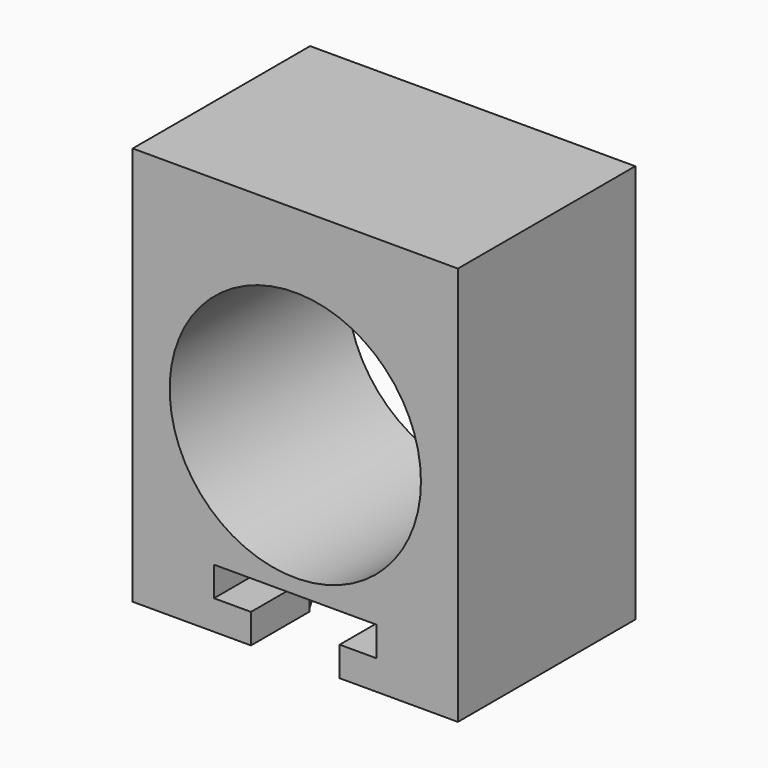
from build123d import *

# Parameters (mm, degrees)
F0_W     = 22
F0_H     = 27
F0_R     = 8.5
F1_DEPTH = 7.5
F3_DEPTH = 2
F6_DEPTH = 2


with BuildPart() as f1:
    # F0 (on Front) → F1 (new body, symmetric)
    with BuildSketch(Plane.XZ):
        Rectangle(F0_W, F0_H)
        Circle(F0_R, mode=Mode.SUBTRACT)
    extrude(amount=F1_DEPTH, both=True)

    # F2 (on face) → F3 (cut)
    with BuildSketch(Plane(origin=(0, 0, -13.5), x_dir=(1, 0, 0), z_dir=(0, 0, -1))):
        with BuildLine():
            Line((3, 7.5), (-3, 7.5))
            Line((-3, 7.5), (-3, 2.5583377574))
            ThreePointArc((-3, 2.5583377574), (0, -3.9427264781), (3, 2.5583377574))
            Line((3, 2.5583377574), (3, 7.5))
        make_face()
    extrude(amount=-F3_DEPTH, mode=Mode.SUBTRACT)

    # F5 (on offset) → F6 (cut)
    with BuildSketch(Plane(origin=(0, 0, -11.5), x_dir=(1, 0, 0), z_dir=(0, 0, -1))):
        with BuildLine():
            Line((5.5, 7.5), (-5.5, 7.5))
            Line((-5.5, 7.5), (-5.5, 2.5583377574))
            ThreePointArc((-5.5, 2.5583377574), (0, -6.0658958185), (5.5, 2.5583377574))
            Line((5.5, 2.5583377574), (5.5, 7.5))
        make_face()
    extrude(amount=-F6_DEPTH, mode=Mode.SUBTRACT)


solid = f1.part
